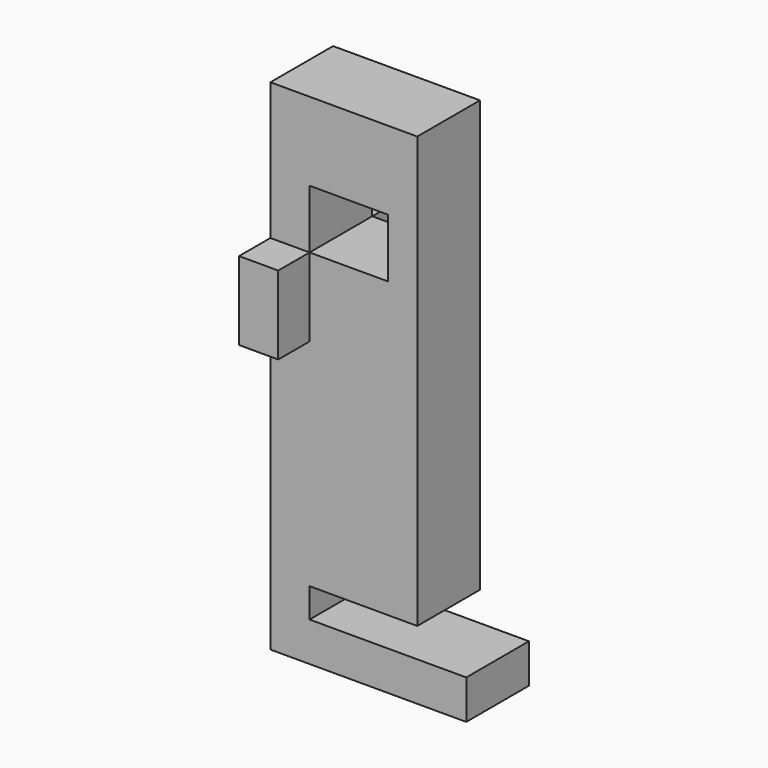
from build123d import *

# Parameters (mm, degrees)
SKETCH002_W  = 4
SKETCH002_H  = 3
PAD002_DEPTH = 4
SKETCH_W     = 2
SKETCH_H     = 4
PAD_DEPTH    = 6


with BuildPart() as part:
    # Sketch002 → Pad002 (new body)
    with BuildSketch(Plane.XZ.offset(-2)):
        Polygon((3.75, 0), (3.75, 22), (3.75, 22), (2.25, 22), (-3.75, 22), (-3.75, 0), (-3.75, -3.5), (6.25, -3.5), (6.25, -1.5), (-1.75, -1.5), (-1.75, 0), align=None)
        with Locations((0.25, 16.5)):
            Rectangle(SKETCH002_W, SKETCH002_H, mode=Mode.SUBTRACT)
    extrude(amount=PAD002_DEPTH)

    # Sketch (on Pad) → Pad (join)
    with BuildSketch(Plane.XZ.offset(-2)):
        with Locations((-2.75, 13)):
            Rectangle(SKETCH_W, SKETCH_H)
    pad = extrude(amount=PAD_DEPTH)

    # Mirrored: Pad across XZ
    add(pad.mirror(Plane.XZ))


solid = part.part
